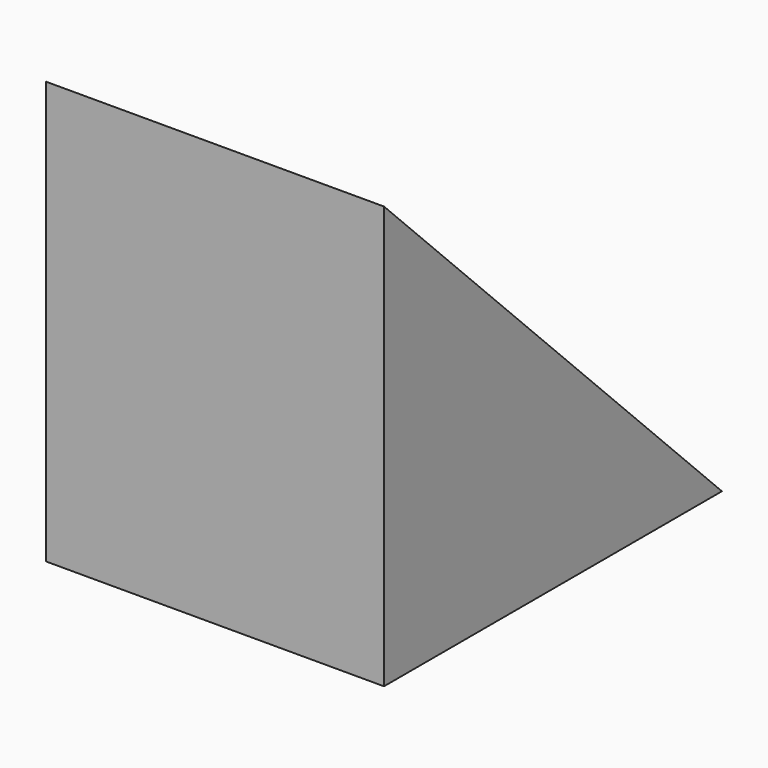
from build123d import *

# Parameters (mm, degrees)
F1_DEPTH = 8
F3_START = 1.7
F2_W     = 6
F2_H     = 9
F3_DEPTH = 20.7
F4_R     = 1
F5_DEPTH = 19.8


with BuildPart() as f1:
    # F0 (on Right) → F1 (new body)
    with BuildSketch(Plane.YZ):
        Polygon((0, 10), (0, 0), (10, 0), align=None)
    extrude(amount=F1_DEPTH)

    # F2 (on Top) → F3 (cut)
    with BuildSketch(Plane.XY.offset(F3_START)):
        with Locations((4.0581296198, 5.5038969816)):
            Rectangle(F2_W, F2_H)
    extrude(amount=F3_DEPTH, mode=Mode.SUBTRACT)

    # F4 (on Top) → F5 (cut)
    with BuildSketch(Plane.XY):
        with Locations((4.1189291514, 5.1976959221)):
            Circle(F4_R)
    extrude(amount=F5_DEPTH, mode=Mode.SUBTRACT)


solid = f1.part
